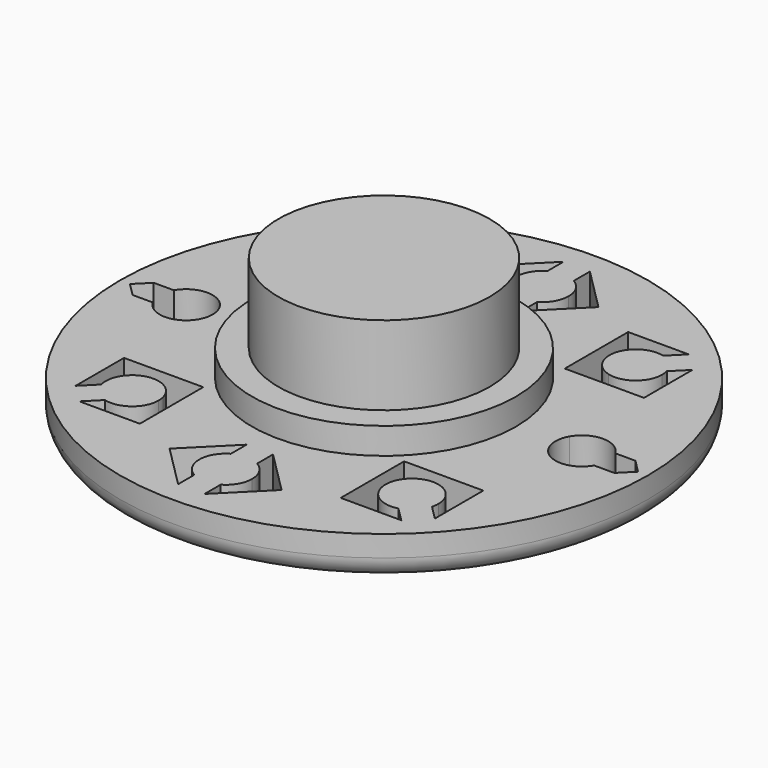
from build123d import *

# Parameters (mm, degrees)
F0_R     = 10
F1_DEPTH = 1.6
F2_R     = 5
F3_DEPTH = 1
F4_R     = 4
F5_DEPTH = 3
F7_R     = 0.8
F8_DEPTH = 25


with BuildPart() as f1:
    # F0 (on Top) → F1 (new body)
    with BuildSketch(Plane.XY):
        Circle(F0_R)
    extrude(amount=F1_DEPTH)

    # F2 (on face) → F3 (join)
    with BuildSketch(Plane.XY.offset(1.6)):
        Circle(F2_R)
    extrude(amount=F3_DEPTH)

    # F7
    f7_edges = [f1.edges().sort_by_distance(p)[0] for p in [
        (-10, 0, 0),
    ]]
    fillet(f7_edges, radius=F7_R)

    # F6 (on face) → F8 (cut)
    with BuildSketch(Plane.XY.offset(1.6)):
        with BuildLine():
            Line((-2.1213203436, 7.5), (-0.5, 5.8786796564))
            Line((-0.5, 5.8786796564), (-0.5, 6.6267208227))
            ThreePointArc((-0.5, 6.6267208227), (-1, 7.4927462265), (-0.5, 8.3587716303))
            Line((-0.5, 8.3587716303), (-0.5, 9.1213203436))
            Line((-0.5, 9.1213203436), (-2.1213203436, 7.5))
        make_face()
        with BuildLine():
            Line((0.5, 6.6267208227), (0.5, 5.8786796564))
            Line((0.5, 5.8786796564), (2.1213203436, 7.5))
            Line((2.1213203436, 7.5), (0.5, 9.1213203436))
            Line((0.5, 9.1213203436), (0.5, 8.3587716303))
            ThreePointArc((0.5, 8.3587716303), (0.8660254038, 7.9927462265), (1, 7.4927462265))
            ThreePointArc((1, 7.4927462265), (0.8660254038, 6.9927462265), (0.5, 6.6267208227))
        make_face()
        with BuildLine():
            Line((6.0961940777, 6.8033008589), (3.8033008589, 6.8033008589))
            Line((3.8033008589, 6.8033008589), (3.8033008589, 4.5104076401))
            Line((3.8033008589, 4.5104076401), (4.3322458402, 5.0393526214))
            ThreePointArc((4.3322458402, 5.0393526214), (4.5910648853, 6.0052784476), (5.5569907116, 6.2640974927))
            Line((5.5569907116, 6.2640974927), (6.0961940777, 6.8033008589))
        make_face()
        with BuildLine():
            Line((6.8033008589, 3.8033008589), (6.8033008589, 6.0961940777))
            Line((6.8033008589, 6.0961940777), (6.2640974927, 5.5569907116))
            ThreePointArc((6.2640974927, 5.5569907116), (6.2896165278, 5.4286978587), (6.2981716665, 5.2981716665))
            ThreePointArc((6.2981716665, 5.2981716665), (5.9069330955, 4.5048183262), (5.0393526214, 4.3322458402))
            Line((5.0393526214, 4.3322458402), (4.5104076401, 3.8033008589))
            Line((4.5104076401, 3.8033008589), (6.8033008589, 3.8033008589))
        make_face()
        with BuildLine():
            ThreePointArc((8.4927462265, 0), (8.4586720528, 0.2588190451), (8.3587716303, 0.5))
            Line((8.3587716303, 0.5), (6.6267208227, 0.5))
            ThreePointArc((6.6267208227, 0.5), (6.4927462265, 0), (6.6267208227, -0.5))
            Line((6.6267208227, -0.5), (8.3587716303, -0.5))
            ThreePointArc((8.3587716303, -0.5), (8.4586720528, -0.2588190451), (8.4927462265, 0))
        make_face()
        with BuildLine():
            Line((9.6213203436, 0), (9.1213203436, 0.5))
            Line((9.1213203436, 0.5), (8.3587716303, 0.5))
            ThreePointArc((8.3587716303, 0.5), (8.4586720528, 0.2588190451), (8.4927462265, 0))
            ThreePointArc((8.4927462265, 0), (8.4586720528, -0.2588190451), (8.3587716303, -0.5))
            Line((8.3587716303, -0.5), (9.1213203436, -0.5))
            Line((9.1213203436, -0.5), (9.6213203436, 0))
        make_face()
        with BuildLine():
            Line((6.6267208227, 0.5), (8.3587716303, 0.5))
            ThreePointArc((8.3587716303, 0.5), (7.4927462265, 1), (6.6267208227, 0.5))
        make_face()
        with BuildLine():
            Line((8.3587716303, -0.5), (6.6267208227, -0.5))
            ThreePointArc((6.6267208227, -0.5), (7.4927462265, -1), (8.3587716303, -0.5))
        make_face()
        with BuildLine():
            Line((-9.6213203436, 0), (-9.1213203436, -0.5))
            Line((-9.1213203436, -0.5), (-8.3587716303, -0.5))
            ThreePointArc((-8.3587716303, -0.5), (-8.4927462265, 0), (-8.3587716303, 0.5))
            Line((-8.3587716303, 0.5), (-9.1213203436, 0.5))
            Line((-9.1213203436, 0.5), (-9.6213203436, 0))
        make_face()
        with BuildLine():
            ThreePointArc((-6.6267208227, 0.5), (-7.4927462265, 1), (-8.3587716303, 0.5))
            Line((-8.3587716303, 0.5), (-6.6267208227, 0.5))
        make_face()
        with BuildLine():
            ThreePointArc((-8.3587716303, 0.5), (-8.4927462265, 0), (-8.3587716303, -0.5))
            Line((-8.3587716303, -0.5), (-6.6267208227, -0.5))
            ThreePointArc((-6.6267208227, -0.5), (-6.5268204002, -0.2588190451), (-6.4927462265, 0))
            ThreePointArc((-6.4927462265, 0), (-6.5268204002, 0.2588190451), (-6.6267208227, 0.5))
            Line((-6.6267208227, 0.5), (-8.3587716303, 0.5))
        make_face()
        with BuildLine():
            Line((-6.6267208227, -0.5), (-8.3587716303, -0.5))
            ThreePointArc((-8.3587716303, -0.5), (-7.4927462265, -1), (-6.6267208227, -0.5))
        make_face()
        with BuildLine():
            Line((-2.1213203436, -7.5), (-0.5, -9.1213203436))
            Line((-0.5, -9.1213203436), (-0.5, -8.3587716303))
            ThreePointArc((-0.5, -8.3587716303), (-1, -7.4927462265), (-0.5, -6.6267208227))
            Line((-0.5, -6.6267208227), (-0.5, -5.8786796564))
            Line((-0.5, -5.8786796564), (-2.1213203436, -7.5))
        make_face()
        with BuildLine():
            Line((0.5, -9.1213203436), (2.1213203436, -7.5))
            Line((2.1213203436, -7.5), (0.5, -5.8786796564))
            Line((0.5, -5.8786796564), (0.5, -6.6267208227))
            ThreePointArc((0.5, -6.6267208227), (0.8660254038, -6.9927462265), (1, -7.4927462265))
            ThreePointArc((1, -7.4927462265), (0.8660254038, -7.9927462265), (0.5, -8.3587716303))
            Line((0.5, -8.3587716303), (0.5, -9.1213203436))
        make_face()
        with BuildLine():
            Line((6.8033008589, -6.0961940777), (6.8033008589, -3.8033008589))
            Line((6.8033008589, -3.8033008589), (4.5104076401, -3.8033008589))
            Line((4.5104076401, -3.8033008589), (5.0393526214, -4.3322458402))
            ThreePointArc((5.0393526214, -4.3322458402), (5.9069330955, -4.5048183262), (6.2981716665, -5.2981716665))
            ThreePointArc((6.2981716665, -5.2981716665), (6.2896165278, -5.4286978587), (6.2640974927, -5.5569907116))
            Line((6.2640974927, -5.5569907116), (6.8033008589, -6.0961940777))
        make_face()
        with BuildLine():
            Line((5.0393526214, -4.3322458402), (4.5104076401, -3.8033008589))
            Line((4.5104076401, -3.8033008589), (3.8033008589, -3.8033008589))
            Line((3.8033008589, -3.8033008589), (3.8033008589, -4.5104076401))
            Line((3.8033008589, -4.5104076401), (4.3322458402, -5.0393526214))
            ThreePointArc((4.3322458402, -5.0393526214), (4.5910648853, -4.5910648853), (5.0393526214, -4.3322458402))
        make_face()
        with BuildLine():
            Line((3.8033008589, -6.8033008589), (6.0961940777, -6.8033008589))
            Line((6.0961940777, -6.8033008589), (5.5569907116, -6.2640974927))
            ThreePointArc((5.5569907116, -6.2640974927), (4.5910648853, -6.0052784476), (4.3322458402, -5.0393526214))
            Line((4.3322458402, -5.0393526214), (3.8033008589, -4.5104076401))
            Line((3.8033008589, -4.5104076401), (3.8033008589, -6.8033008589))
        make_face()
        with BuildLine():
            Line((-6.8033008589, -3.8033008589), (-6.8033008589, -6.0961940777))
            Line((-6.8033008589, -6.0961940777), (-6.2640974927, -5.5569907116))
            ThreePointArc((-6.2640974927, -5.5569907116), (-6.0052784476, -4.5910648853), (-5.0393526214, -4.3322458402))
            Line((-5.0393526214, -4.3322458402), (-4.5104076401, -3.8033008589))
            Line((-4.5104076401, -3.8033008589), (-6.8033008589, -3.8033008589))
        make_face()
        with BuildLine():
            Line((-4.3322458402, -5.0393526214), (-3.8033008589, -4.5104076401))
            Line((-3.8033008589, -4.5104076401), (-3.8033008589, -3.8033008589))
            Line((-3.8033008589, -3.8033008589), (-4.5104076401, -3.8033008589))
            Line((-4.5104076401, -3.8033008589), (-5.0393526214, -4.3322458402))
            ThreePointArc((-5.0393526214, -4.3322458402), (-4.5910648853, -4.5910648853), (-4.3322458402, -5.0393526214))
        make_face()
        with BuildLine():
            Line((-6.0961940777, -6.8033008589), (-3.8033008589, -6.8033008589))
            Line((-3.8033008589, -6.8033008589), (-3.8033008589, -4.5104076401))
            Line((-3.8033008589, -4.5104076401), (-4.3322458402, -5.0393526214))
            ThreePointArc((-4.3322458402, -5.0393526214), (-4.3067268051, -5.1676454742), (-4.2981716665, -5.2981716665))
            ThreePointArc((-4.2981716665, -5.2981716665), (-4.6894102375, -6.0915250068), (-5.5569907116, -6.2640974927))
            Line((-5.5569907116, -6.2640974927), (-6.0961940777, -6.8033008589))
        make_face()
        with BuildLine():
            Line((4.3322458402, 5.0393526214), (3.8033008589, 4.5104076401))
            Line((3.8033008589, 4.5104076401), (3.8033008589, 3.8033008589))
            Line((3.8033008589, 3.8033008589), (4.5104076401, 3.8033008589))
            Line((4.5104076401, 3.8033008589), (5.0393526214, 4.3322458402))
            ThreePointArc((5.0393526214, 4.3322458402), (4.5910648853, 4.5910648853), (4.3322458402, 5.0393526214))
        make_face()
        with BuildLine():
            Line((-6.8033008589, 6.0961940777), (-6.8033008589, 3.8033008589))
            Line((-6.8033008589, 3.8033008589), (-4.5104076401, 3.8033008589))
            Line((-4.5104076401, 3.8033008589), (-5.0393526214, 4.3322458402))
            ThreePointArc((-5.0393526214, 4.3322458402), (-6.0052784476, 4.5910648853), (-6.2640974927, 5.5569907116))
            Line((-6.2640974927, 5.5569907116), (-6.8033008589, 6.0961940777))
        make_face()
        with BuildLine():
            Line((-5.0393526214, 4.3322458402), (-4.5104076401, 3.8033008589))
            Line((-4.5104076401, 3.8033008589), (-3.8033008589, 3.8033008589))
            Line((-3.8033008589, 3.8033008589), (-3.8033008589, 4.5104076401))
            Line((-3.8033008589, 4.5104076401), (-4.3322458402, 5.0393526214))
            ThreePointArc((-4.3322458402, 5.0393526214), (-4.5910648853, 4.5910648853), (-5.0393526214, 4.3322458402))
        make_face()
        with BuildLine():
            Line((-3.8033008589, 6.8033008589), (-6.0961940777, 6.8033008589))
            Line((-6.0961940777, 6.8033008589), (-5.5569907116, 6.2640974927))
            ThreePointArc((-5.5569907116, 6.2640974927), (-4.6894102375, 6.0915250068), (-4.2981716665, 5.2981716665))
            ThreePointArc((-4.2981716665, 5.2981716665), (-4.3067268051, 5.1676454742), (-4.3322458402, 5.0393526214))
            Line((-4.3322458402, 5.0393526214), (-3.8033008589, 4.5104076401))
            Line((-3.8033008589, 4.5104076401), (-3.8033008589, 6.8033008589))
        make_face()
    extrude(amount=-F8_DEPTH, mode=Mode.SUBTRACT)


with BuildPart() as f5:
    # F4 (on face) → F5 (new body)
    with BuildSketch(Plane.XY.offset(2.6)):
        Circle(F4_R)
    extrude(amount=F5_DEPTH)


solid = Compound([f1.part, f5.part])
